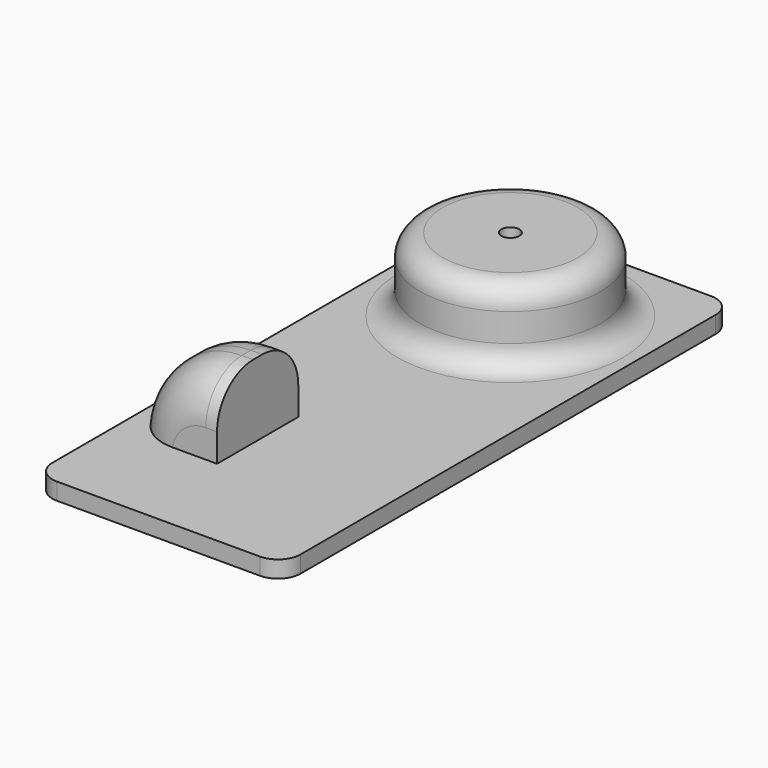
from build123d import *

# Parameters (mm, degrees)
BOX019_W          = 8
BOX019_H          = 9
BOX019_DEPTH      = 8
FILLET027_R       = 7
FILLET028_R       = 4
CYLINDER_R        = 0.8
CYLINDER_DEPTH    = 10
CYLINDER029_R     = 8
CYLINDER029_DEPTH = 10
BOX018_W          = 22
BOX018_H          = 50
BOX018_DEPTH      = 8
FILLET025_R       = 2
BOX016_W          = 22
BOX016_H          = 50
BOX016_DEPTH      = 8
FILLET026_R       = 2
FILLET029_R       = 2


with BuildPart() as fillet028:
    # Box019 → Box019 (new body)
    with BuildSketch(Plane(origin=(-10, -30, 0), x_dir=(1, 0, 0), z_dir=(0, 0, 1))):
        with Locations((4, 4.5)):
            Rectangle(BOX019_W, BOX019_H)
    extrude(amount=BOX019_DEPTH)

    # Fillet027
    fillet027_edges = [fillet028.edges().sort_by_distance(p)[0] for p in [
        (-10, -25.5, 8),
    ]]
    fillet(fillet027_edges, radius=FILLET027_R)

    # Fillet028
    fillet028_edges = [fillet028.edges().sort_by_distance(p)[0] for p in [
        (-7.949747, -30, 5.949747),
        (-7.949747, -21, 5.949747),
    ]]
    fillet(fillet028_edges, radius=FILLET028_R)


with BuildPart() as obj1:
    # Cylinder → Cylinder (new body)
    with BuildSketch(Plane.XY):
        Circle(CYLINDER_R)
    extrude(amount=CYLINDER_DEPTH)


with BuildPart() as obj2:
    # Cylinder029 → Cylinder029 (new body)
    with BuildSketch(Plane.XY):
        Circle(CYLINDER029_R)
    extrude(amount=CYLINDER029_DEPTH)


with BuildPart() as fusion014:
    # Box018 → Box018 (new body)
    with BuildSketch(Plane(origin=(-11, -39, 1.5), x_dir=(1, 0, 0), z_dir=(0, 0, 1))):
        with Locations((11, 25)):
            Rectangle(BOX018_W, BOX018_H)
    extrude(amount=BOX018_DEPTH)

    # Cut008: cut obj2
    add(obj2.part, mode=Mode.SUBTRACT)

    # Fillet025
    fillet025_edges = [fusion014.edges().sort_by_distance(p)[0] for p in [
        (-8, 0, 1.5),
    ]]
    fillet(fillet025_edges, radius=FILLET025_R)

    # Fusion014: union obj1
    add(obj1.part)


with BuildPart() as obj3:
    # Box016 → Box016 (new body)
    with BuildSketch(Plane(origin=(-11, -39, 0), x_dir=(1, 0, 0), z_dir=(0, 0, 1))):
        with Locations((11, 25)):
            Rectangle(BOX016_W, BOX016_H)
    extrude(amount=BOX016_DEPTH)

    # Fillet026
    fillet026_edges = [obj3.edges().sort_by_distance(p)[0] for p in [
        (-11, -39, 4),
        (-11, 11, 4),
        (11, -39, 4),
        (11, 11, 4),
    ]]
    fillet(fillet026_edges, radius=FILLET026_R)

    # Cut009: cut Fusion014
    add(fusion014.part, mode=Mode.SUBTRACT)

    # Fillet029
    fillet029_edges = [obj3.edges().sort_by_distance(p)[0] for p in [
        (-8, 0, 8),
    ]]
    fillet(fillet029_edges, radius=FILLET029_R)

    # Fusion015: union Fillet028
    add(fillet028.part)


with BuildPart() as obj3_1:
    # Fusion015 placement: moved
    add(obj3.part.moved(Location((0, 84, 0))))


solid = obj3_1.part
